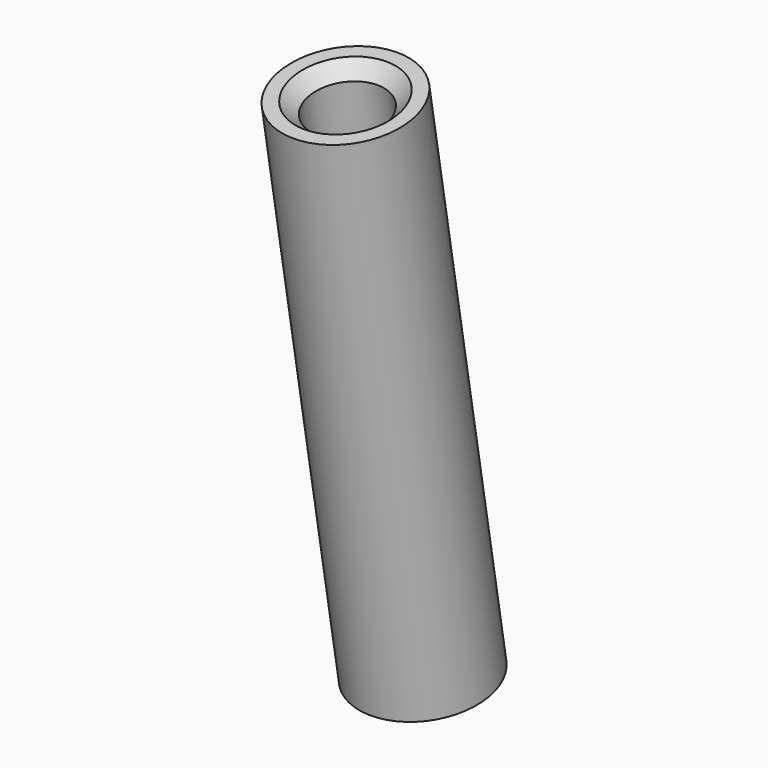
from build123d import *

# Parameters (mm, degrees)
CYLINDER001_R               = 1.1
CYLINDER001_DEPTH           = 16
CYLINDER001_PLACEMENT_ANGLE = 10
CYLINDER_R                  = 1.9
CYLINDER_DEPTH              = 16
CYLINDER_PLACEMENT_ANGLE    = 10
CHAMFER001_SIZE             = 0.4


with BuildPart() as cylinder001:
    # Cylinder001 → Cylinder001 (new body)
    with BuildSketch(Plane.XY):
        Circle(CYLINDER001_R)
    extrude(amount=CYLINDER001_DEPTH)


with BuildPart() as cylinder001_1:
    # Cylinder001 placement: moved
    add(cylinder001.part.moved(Location((0.52, 0.33, 2.75))).rotate(Axis((0.52, 0.33, 2.75), (1, 0, 0)), CYLINDER001_PLACEMENT_ANGLE))


with BuildPart() as chamfer001:
    # Cylinder → Cylinder (new body)
    with BuildSketch(Plane.XY):
        Circle(CYLINDER_R)
    extrude(amount=CYLINDER_DEPTH)


with BuildPart() as chamfer001_1:
    # Cylinder placement: moved
    add(chamfer001.part.moved(Location((0.52, 0.33, 2.75))).rotate(Axis((0.52, 0.33, 2.75), (1, 0, 0)), CYLINDER_PLACEMENT_ANGLE))

    # Cut: cut Cylinder001
    add(cylinder001_1.part, mode=Mode.SUBTRACT)

    # Chamfer001
    chamfer001_edges = [chamfer001_1.edges().sort_by_distance(p)[0] for p in [
        (-0.58, -2.448371, 18.506924),
    ]]
    chamfer(chamfer001_edges, length=CHAMFER001_SIZE)


solid = chamfer001_1.part
